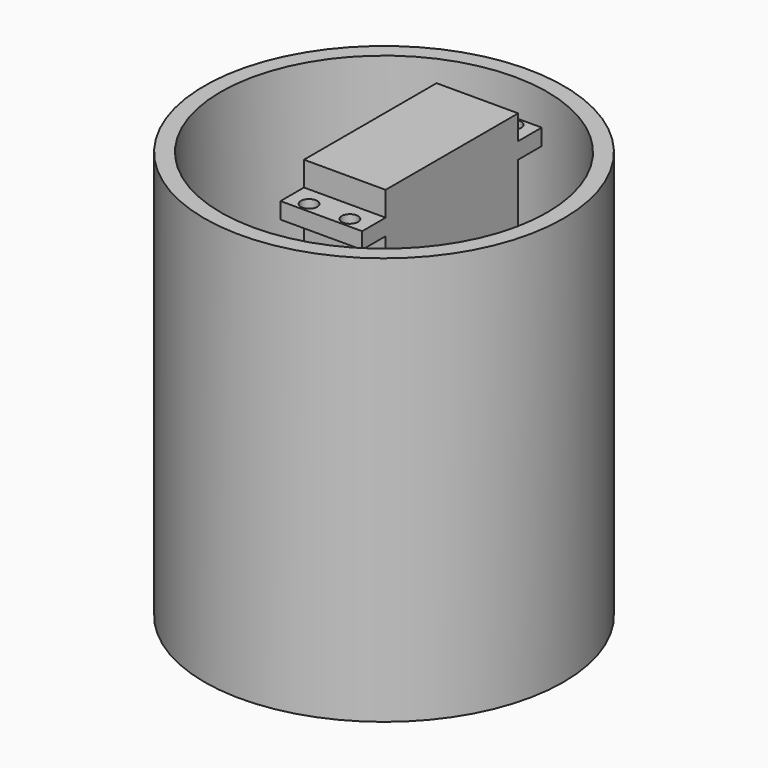
from build123d import *

# Parameters (mm, degrees)
F0_W     = 7.2
F0_H     = 4
F0_W_2   = 40.6
F0_H_2   = 6
F0_H_3   = 28
F1_DEPTH = 10
F4_D     = 4
F3_R     = 44
F3_R_2   = 40
F5_DEPTH = 100
F6_DEPTH = 100


with BuildPart() as f1:
    # F0 (on Right) → F1 (new body, symmetric)
    with BuildSketch(Plane.YZ):
        with Locations((23.9, 9.8437508568)):
            Rectangle(F0_W, F0_H)
        with Locations((0, 14.8437508568)):
            Rectangle(F0_W_2, F0_H_2)
        with Locations((0, -6.1562491432)):
            Rectangle(F0_W_2, F0_H_3)
        with Locations((-23.9, 9.8437508568)):
            Rectangle(F0_W, F0_H)
        with Locations((0, 9.8437508568)):
            Rectangle(F0_W_2, F0_H)
    extrude(amount=F1_DEPTH, both=True)

    # F4 (through all)
    with Locations(Plane(origin=(0, 0, 0), x_dir=(1, 0, 0), z_dir=(0, 0, -1))):
        with Locations((-5, -25), (5, -25), (5, 25), (-5, 25)):
            Hole(F4_D / 2)


with BuildPart() as f5:
    # F3 (on face) → F5 (new body)
    with BuildSketch(Plane.XY.offset(17.8437508568)):
        with Locations((0, -8.3)):
            Circle(F3_R)
        with Locations((0, -8.3)):
            Circle(F3_R_2, mode=Mode.SUBTRACT)
        with Locations((0, -8.3)):
            Circle(F3_R)
        with Locations((0, -8.3)):
            Circle(F3_R_2, mode=Mode.SUBTRACT)
    extrude(amount=-F5_DEPTH)


with BuildPart() as f6:
    # F3 (on face) → F6 (new body, through all)
    with BuildSketch(Plane.XY.offset(17.8437508568)):
        with Locations((0, -8.3)):
            Circle(F3_R)
        with Locations((0, -8.3)):
            Circle(F3_R_2, mode=Mode.SUBTRACT)
    extrude(amount=-F6_DEPTH)


solid = Compound([f1.part, f5.part, f6.part])
